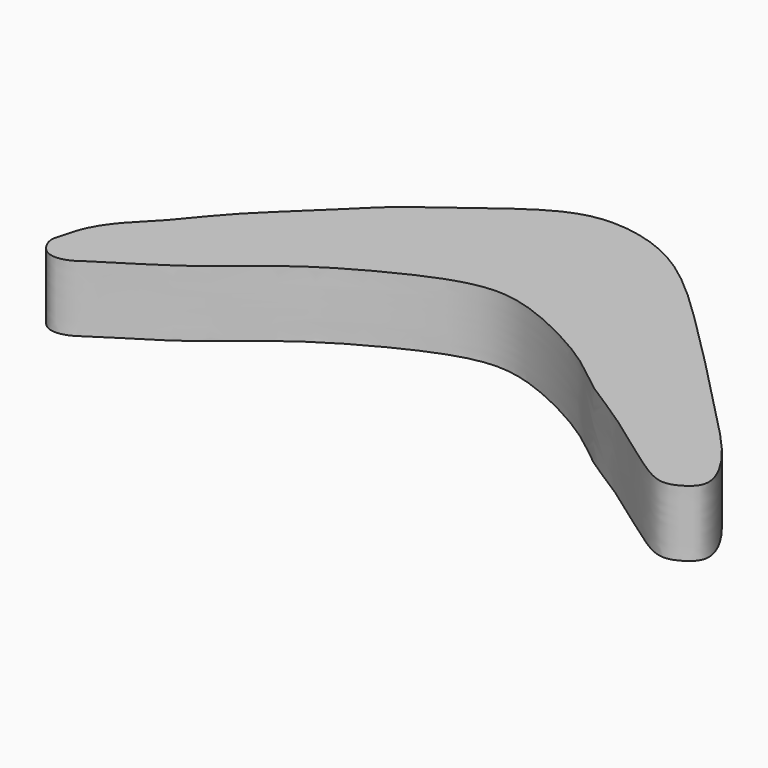
from build123d import *

# Parameters (mm, degrees)
F1_DEPTH = 5
F3_DEPTH = 3


with BuildPart() as f1:
    # F0 (on Top) → F1 (new body)
    with BuildSketch(Plane.XY):
        with BuildLine():
            add(Edge.make_bspline(
                [(-1.336469791, 16.2354136517), (-2.7412751322, 16.0775545964), (-5.2057202851, 14.8981194763), (-9.1297438896, 11.8006867475), (-12.1937896856, 9.6624625825), (-14.8974776041, 6.7610931934), (-18.8110032662, 3.2739941534), (-21.2432465658, -0.0054931615), (-23.1644899905, -1.7415804674), (-24.4608581648, -3.6145050384), (-24.9163386524, -5.415914183), (-25.1830516595, -6.3629181545), (-24.2399315528, -7.8652120391), (-22.567166704, -7.6489253481), (-21.502426746, -6.7505778845), (-17.1291956765, -4.2078566553), (-14.1020036583, -1.6203231532), (-10.7620696562, 1.020478901), (-5.7431966779, 3.7565815416), (-1.7312524402, 5.2813901803), (2.1430366611, 5.1767706359), (8.7749907984, 1.7474438445), (11.6387055894, -0.9591550626), (14.7043057481, -2.6391267474), (19.5190817935, -6.2806846428), (22.1621885879, -7.987204986), (23.5495769304, -7.5717595996), (25.0955186111, -6.4037663977), (23.565361254, -3.191833325), (19.736137608, 0.7673720697), (10.7864397391, 10.0015240686), (4.6327647587, 15.6179634032), (0.2841972334, 16.4175292503), (-1.336469791, 16.2354136517)],
                knots=[0, 0, 0, 0, 0.033553778, 0.0705106235, 0.1025148693, 0.1354131703, 0.1736909254, 0.2072572415, 0.2337190043, 0.2586263595, 0.2808781805, 0.2970046293, 0.3173032945, 0.3370134778, 0.3566508614, 0.3934647889, 0.427364455, 0.4614344906, 0.5012586666, 0.5351218097, 0.5673457435, 0.6123091979, 0.6452201446, 0.6760988857, 0.7173926952, 0.7459666284, 0.7646382921, 0.7851014884, 0.8131488206, 0.8528606134, 0.9127596757, 0.9612903653, 1, 1, 1, 1], degree=3))
        make_face()
    extrude(amount=F1_DEPTH)

    # F2 (on face) → F3 (cut)
    with BuildSketch(Plane.XY.offset(5)):
        with BuildLine():
            Line((0, 13.3596463219), (0, 14.1792520881))
            add(Edge.make_bspline(
                [(0, 13.3596463129), (-0.0613932628, 13.7163194162), (-0.2088611262, 14.0393318477), (0, 14.1792520881)],
                knots=[0.9732919439, 0.9732919439, 0.9732919439, 0.9732919439, 1, 1, 1, 1], degree=3))
        make_face()
        with BuildLine():
            add(Edge.make_bspline(
                [(0, 14.1792520881), (-0.4667885034, 14.4886568414), (-5.4315802302, 12.5704760408), (-9.4722483626, 10.3299428792), (-15.709929229, 5.0536692144), (-20.0851288015, 0.1248736748), (-23.4631810522, -2.8414300907), (-24.0101689898, -4.8102528851), (-24.194509111, -6.7230439533), (-21.9711822271, -6.6114519779), (-19.3450549277, -4.3405288154), (-14.6204059248, -1.1043376018), (-8.9339178907, 3.4112641503), (-6.0727326374, 4.6086265879), (-2.3008588278, 6.2642461503), (-0.1951803861, 5.9800908393), (0, 6.188093219)],
                knots=[0, 0, 0, 0, 0.0607558938, 0.1246000186, 0.2016612523, 0.2736400045, 0.3299054906, 0.3686779279, 0.4014929668, 0.4356288528, 0.4860478201, 0.5532694674, 0.6264311348, 0.6754113526, 0.7313673373, 0.7699162442, 0.7699162442, 0.7699162442, 0.7699162442], degree=3))
            Line((0, 14.1792520881), (0, 16.2682971241))
            add(Edge.make_bspline(
                [(0, 16.2682971241), (-0.4614701222, 16.2940980695), (-0.9096791339, 16.2833724457), (-1.336469791, 16.2354136517)],
                knots=[0.9898061044, 0.9898061044, 0.9898061044, 0.9898061044, 1, 1, 1, 1], degree=3))
            add(Edge.make_bspline(
                [(-1.336469791, 16.2354136517), (-2.7412751322, 16.0775545964), (-5.2057202851, 14.8981194763), (-9.1297438896, 11.8006867475), (-12.1937896856, 9.6624625825), (-14.8974776041, 6.7610931934), (-18.8110032662, 3.2739941534), (-21.2432465658, -0.0054931615), (-23.1644899905, -1.7415804674), (-24.4608581648, -3.6145050384), (-24.9163386524, -5.415914183), (-25.1830516595, -6.3629181545), (-24.2399315528, -7.8652120391), (-22.567166704, -7.6489253481), (-21.502426746, -6.7505778845), (-17.1291956765, -4.2078566553), (-14.1020036583, -1.6203231532), (-10.7620696562, 1.020478901), (-5.7431966779, 3.7565815416), (-2.3579325651, 5.0432095847), (-0.5923671704, 5.1867757165), (0, 5.1560964499)],
                knots=[0, 0, 0, 0, 0.033553778, 0.0705106235, 0.1025148693, 0.1354131703, 0.1736909254, 0.2072572415, 0.2337190043, 0.2586263595, 0.2808781805, 0.2970046293, 0.3173032945, 0.3370134778, 0.3566508614, 0.3934647889, 0.427364455, 0.4614344906, 0.5012586666, 0.5351218097, 0.5508020248, 0.5508020248, 0.5508020248, 0.5508020248], degree=3))
            Line((0, 5.1560964499), (0, 6.188093219))
        make_face()
    extrude(amount=F3_DEPTH, mode=Mode.SUBTRACT)


solid = f1.part
